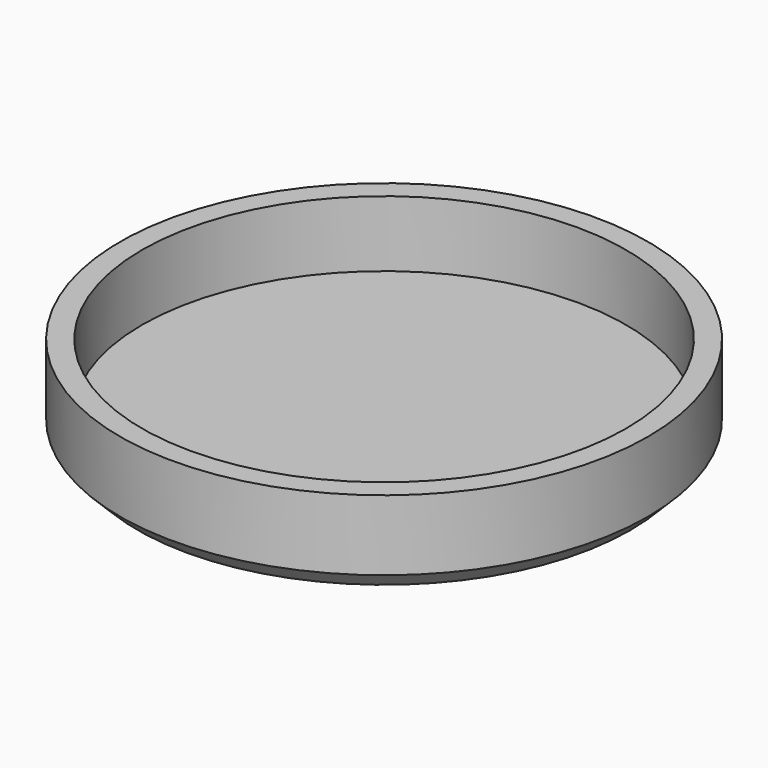
from build123d import *

# Parameters (mm, degrees)
F0_R     = 76.2
F1_DEPTH = 25.4
F2_SIZE  = 5.08
F4_D     = 139.7
F5_R     = 69.85
F6_DEPTH = 6.35


with BuildPart() as f1:
    # F0 (on Top) → F1 (new body)
    with BuildSketch(Plane.XY):
        Circle(F0_R)
    extrude(amount=F1_DEPTH)

    # F2
    f2_edges = [f1.edges().sort_by_distance(p)[0] for p in [
        (-76.2, 0, 0),
    ]]
    chamfer(f2_edges, length=F2_SIZE)

    # F4 (through all)
    with Locations(Plane.XY.offset(25.4)):
        with Locations((0, 0)):
            Hole(F4_D / 2)

    # F5 (on Top) → F6 (join)
    with BuildSketch(Plane.XY):
        Circle(F5_R)
    extrude(amount=F6_DEPTH)


solid = f1.part
